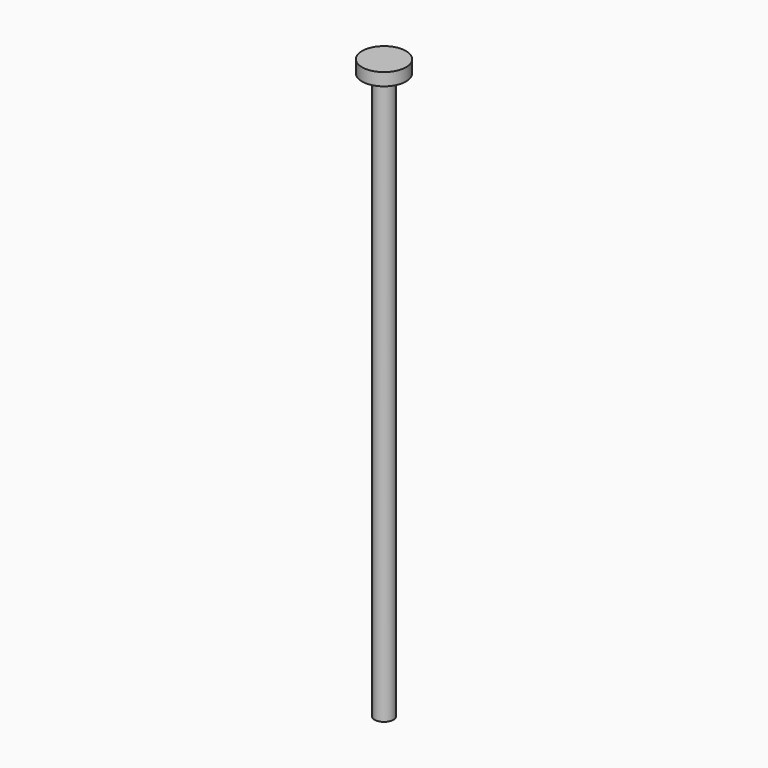
from build123d import *

# Parameters (mm, degrees)
SKETCH_R     = 1.5
PAD_DEPTH    = 90
SKETCH001_R  = 3.5
PAD001_DEPTH = 2


with BuildPart() as part:
    # Sketch → Pad (new body)
    with BuildSketch(Plane.XY):
        Circle(SKETCH_R)
    extrude(amount=PAD_DEPTH)

    # Sketch001 (on Face3 of Pad) → Pad001 (join)
    with BuildSketch(Plane.XY.offset(90)):
        Circle(SKETCH001_R)
    extrude(amount=PAD001_DEPTH)


solid = part.part
